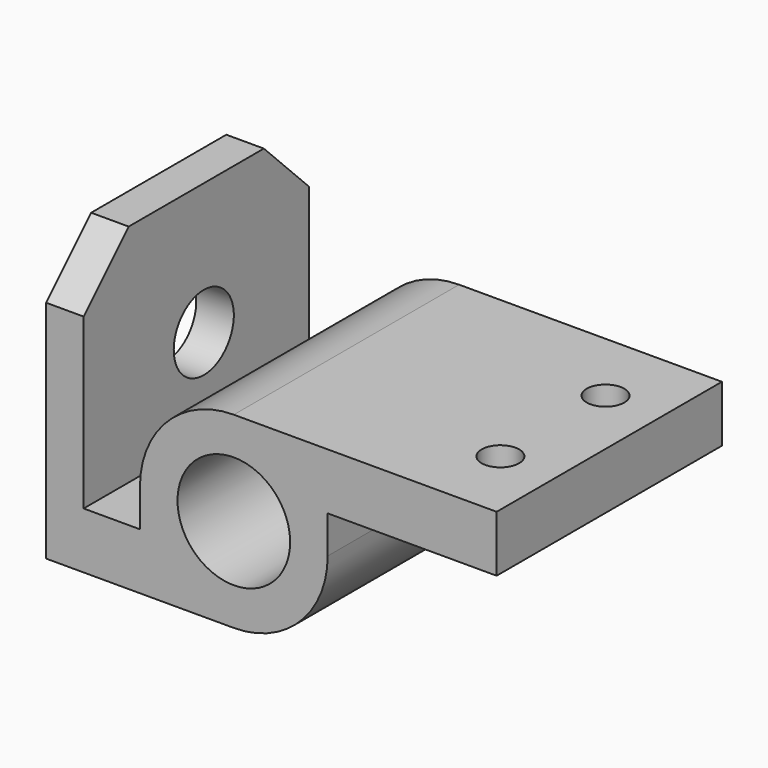
from build123d import *

# Parameters (mm, degrees)
F0_R     = 15
F1_DEPTH = 75
F2_R     = 10
F3_DEPTH = 18
F4_R     = 5
F5_DEPTH = 25


with BuildPart() as f1:
    # F0 (on Front) → F1 (new body)
    with BuildSketch(Plane.XZ):
        with BuildLine():
            Line((-50, -25), (0, -25))
            ThreePointArc((0, -25), (17.67767, -17.67767), (25, 0))
            Line((25, 0), (25, 10))
            Line((25, 10), (70, 10))
            Line((70, 10), (70, 25))
            Line((70, 25), (0, 25))
            ThreePointArc((0, 25), (-17.67767, 17.67767), (-25, 0))
            Line((-25, 0), (-25, -10))
            Line((-25, -10), (-40, -10))
            Line((-40, -10), (-40, 50))
            Line((-40, 50), (-50, 50))
            Line((-50, 50), (-50, -25))
        make_face()
        Circle(F0_R, mode=Mode.SUBTRACT)
        with BuildLine():
            Line((-50, -25), (0, -25))
            ThreePointArc((0, -25), (17.67767, -17.67767), (25, 0))
            Line((25, 0), (25, 10))
            Line((25, 10), (70, 10))
            Line((70, 10), (70, 25))
            Line((70, 25), (0, 25))
            ThreePointArc((0, 25), (-17.67767, 17.67767), (-25, 0))
            Line((-25, 0), (-25, -10))
            Line((-25, -10), (-40, -10))
            Line((-40, -10), (-40, 50))
            Line((-40, 50), (-50, 50))
            Line((-50, 50), (-50, -25))
        make_face()
        Circle(F0_R, mode=Mode.SUBTRACT)
    extrude(amount=F1_DEPTH)

    # F2 (on face) → F3 (cut)
    with BuildSketch(Plane(origin=(-50, 0, 0), x_dir=(0, -1, 0), z_dir=(-1, 0, 0))):
        with Locations((35, 15)):
            Circle(F2_R)
        Polygon((75, 50), (60, 50), (75, 35), align=None)
        Polygon((0, 50), (0, 35), (15, 50), align=None)
    extrude(amount=-F3_DEPTH, mode=Mode.SUBTRACT)

    # F4 (on face) → F5 (cut)
    with BuildSketch(Plane.XY.offset(25)):
        with Locations((55, -20)):
            Circle(F4_R)
        with Locations((55, -55)):
            Circle(F4_R)
    extrude(amount=-F5_DEPTH, mode=Mode.SUBTRACT)


solid = f1.part
